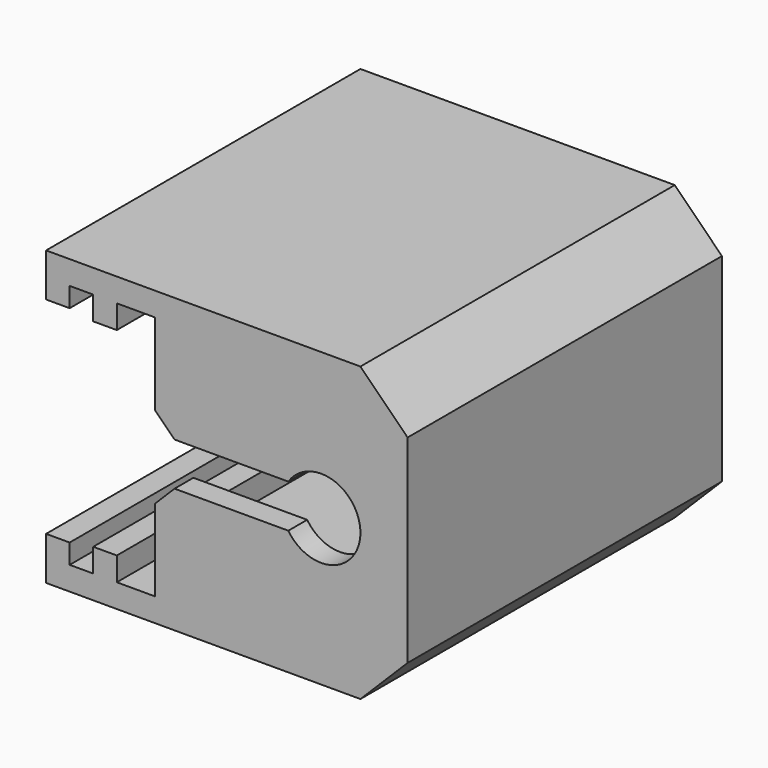
from build123d import *

# Parameters (mm, degrees)
PAD_DEPTH           = 20
PAD001_DEPTH        = 1.2
LINEARPATTERN_COUNT = 2
LINEARPATTERN_PITCH = 18.8


with BuildPart() as part:
    # Sketch → Pad (new body)
    with BuildSketch(Plane.XZ):
        Polygon((-8, 7.45), (8, 7.45), (10.4, 5.05), (10.4, -5.05), (8, -7.45), (-8, -7.45), (-8, -5.25), (-6.8, -5.25), (-6.8, -6.25), (-5.6, -6.25), (-5.6, -5.05), (-4.4, -5.05), (-4.4, -6.25), (7.538299, -6.25), (9.2, -4.588299), (9.2, 4.588299), (7.538299, 6.25), (-4.4, 6.25), (-4.4, 5.05), (-5.6, 5.05), (-5.6, 6.25), (-6.8, 6.25), (-6.8, 5.25), (-8, 5.25), align=None)
    extrude(amount=PAD_DEPTH)

    # Sketch001 (on DatumPlane) → Pad001 (join)
    with BuildSketch(Plane.XZ.offset(20)):
        with BuildLine():
            Line((-2.461701, 6.25), (7.538299, 6.25))
            Line((7.538299, 6.25), (9.2, 4.588299))
            Line((9.2, 4.588299), (9.2, -4.588299))
            Line((9.2, -4.588299), (7.538299, -6.25))
            Line((-2.461701, -6.25), (7.538299, -6.25))
            Line((-2.461701, -6.25), (-2.461701, -2.1))
            Line((-2.461701, -2.1), (-1.461701, -1.1))
            Line((4.329671, -1.1), (-1.461701, -1.1))
            ThreePointArc((4.329671, -1.1), (8, 0), (4.329671, 1.1))
            Line((-1.461701, 1.1), (4.329671, 1.1))
            Line((-1.461701, 1.1), (-2.461701, 2.1))
            Line((-2.461701, 2.1), (-2.461701, 6.25))
        make_face()
    pad001 = extrude(amount=-PAD001_DEPTH)

    # LinearPattern: Pad001 ×2
    with Locations(*[(0, i * LINEARPATTERN_PITCH, 0) for i in range(1, LINEARPATTERN_COUNT)]):
        add(pad001)


solid = part.part
